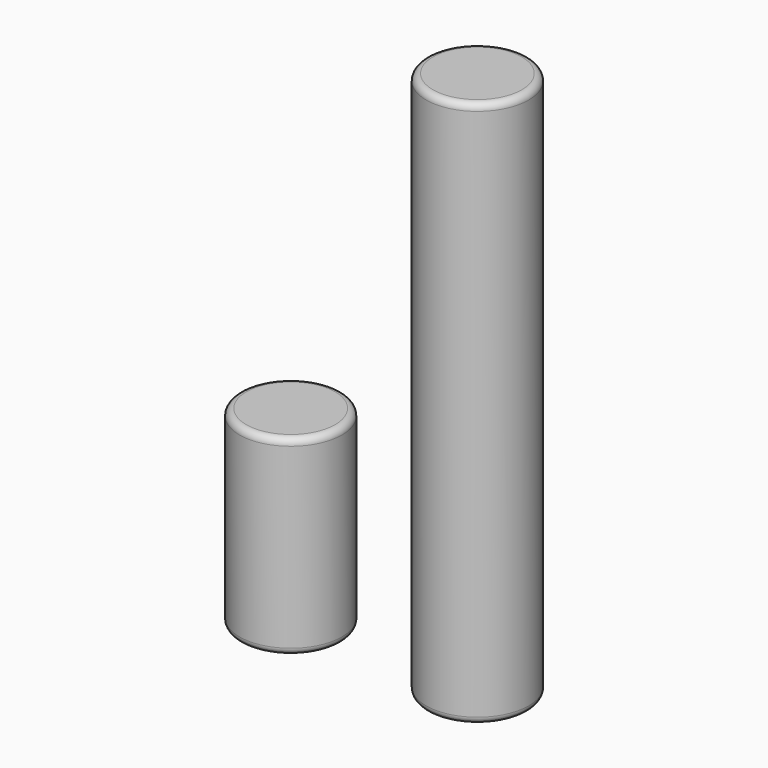
from build123d import *

# Parameters (mm, degrees)
F0_R     = 9.525
F1_DEPTH = 35.56
F2_R     = 1.27
F3_R     = 9.525
F4_DEPTH = 101.6
F5_R     = 1.27


with BuildPart() as f1:
    # F0 (on Top) → F1 (new body)
    with BuildSketch(Plane.XY):
        Circle(F0_R)
    extrude(amount=F1_DEPTH)

    # F2
    f2_edges = [f1.edges().sort_by_distance(p)[0] for p in [
        (-9.525, 0, 35.56),
        (-9.525, 0, 0),
    ]]
    fillet(f2_edges, radius=F2_R)


with BuildPart() as f4:
    # F3 (on Top) → F4 (new body)
    with BuildSketch(Plane.XY):
        with Locations((34.678298, 0)):
            Circle(F3_R)
    extrude(amount=F4_DEPTH)

    # F5
    f5_edges = [f4.edges().sort_by_distance(p)[0] for p in [
        (25.153298, 0, 101.6),
        (25.153298, 0, 0),
    ]]
    fillet(f5_edges, radius=F5_R)


solid = Compound([f1.part, f4.part])
